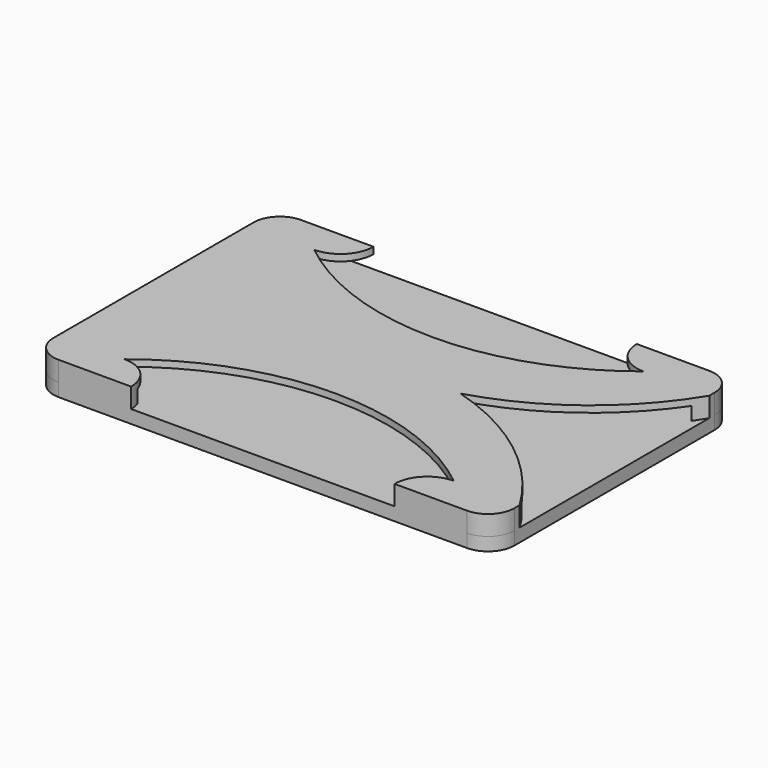
from build123d import *

# Parameters (mm, degrees)
F0_W     = 88.9
F0_H     = 58.42
F1_DEPTH = 2.54
F2_R     = 5.08
F4_DEPTH = 3.81
F5_W     = 86.106
F5_H     = 63.5
F6_DEPTH = 2.54


with BuildPart() as f1:
    # F0 (on Top) → F1 (new body)
    with BuildSketch(Plane.XY):
        with Locations((-15.937483, -2.926046)):
            Rectangle(F0_W, F0_H)
    extrude(amount=F1_DEPTH)

    # F2
    f2_edges = [f1.edges().sort_by_distance(p)[0] for p in [
        (-60.387483, 26.283954, 1.27),
        (-60.387483, -32.136046, 1.27),
        (28.512517, -32.136046, 1.27),
        (28.512517, 26.283954, 1.27),
    ]]
    fillet(f2_edges, radius=F2_R)

    # F3 (on face) → F4 (join)
    with BuildSketch(Plane.XY.offset(2.54)):
        with BuildLine():
            ThreePointArc((-55.307483, 26.283954), (-58.899585, 24.796056), (-60.387483, 21.203954))
            Line((-60.387483, 21.203954), (-60.387483, 19.933954))
            ThreePointArc((-60.387483, 19.933954), (-47.671274, 5.737441), (-30.695205, -2.926046))
            ThreePointArc((-30.695205, -2.926046), (-47.671274, -11.589534), (-60.387483, -25.786046))
            Line((-60.387483, -25.786046), (-60.387483, -27.056046))
            ThreePointArc((-60.387483, -27.056046), (-58.899585, -30.648149), (-55.307483, -32.136046))
            Line((-55.307483, -32.136046), (-41.337483, -32.136046))
            ThreePointArc((-41.337483, -32.136046), (-43.197355, -27.645918), (-47.687483, -25.786046))
            ThreePointArc((-47.687483, -25.786046), (-15.937483, -14.641784), (15.812517, -25.786046))
            ThreePointArc((15.812517, -25.786046), (11.322389, -27.645918), (9.462517, -32.136046))
            Line((9.462517, -32.136046), (23.432517, -32.136046))
            ThreePointArc((23.432517, -32.136046), (27.02462, -30.648149), (28.512517, -27.056046))
            Line((28.512517, -27.056046), (28.512517, -25.786046))
            ThreePointArc((28.512517, -25.786046), (15.796308, -11.589534), (-1.17976, -2.926046))
            ThreePointArc((-1.17976, -2.926046), (15.796308, 5.737441), (28.512517, 19.933954))
            Line((28.512517, 19.933954), (28.512517, 21.203954))
            ThreePointArc((28.512517, 21.203954), (27.02462, 24.796056), (23.432517, 26.283954))
            Line((23.432517, 26.283954), (9.462517, 26.283954))
            ThreePointArc((9.462517, 26.283954), (11.322389, 21.793825), (15.812517, 19.933954))
            ThreePointArc((15.812517, 19.933954), (-15.937483, 8.789691), (-47.687483, 19.933954))
            ThreePointArc((-47.687483, 19.933954), (-43.197355, 21.793825), (-41.337483, 26.283954))
            Line((-41.337483, 26.283954), (-55.307483, 26.283954))
        make_face()
        with BuildLine():
            ThreePointArc((-30.695205, -2.926046), (-47.671274, 5.737441), (-60.387483, 19.933954))
            Line((-60.387483, 19.933954), (-60.387483, -25.786046))
            ThreePointArc((-60.387483, -25.786046), (-47.671274, -11.589534), (-30.695205, -2.926046))
        make_face()
    extrude(amount=F4_DEPTH)

    # F5 (on face) → F6 (cut)
    with BuildSketch(Plane.XY.offset(2.54)):
        with Locations((-16.064483, 1.518954)):
            Rectangle(F5_W, F5_H)
    extrude(amount=F6_DEPTH, mode=Mode.SUBTRACT)


solid = f1.part
